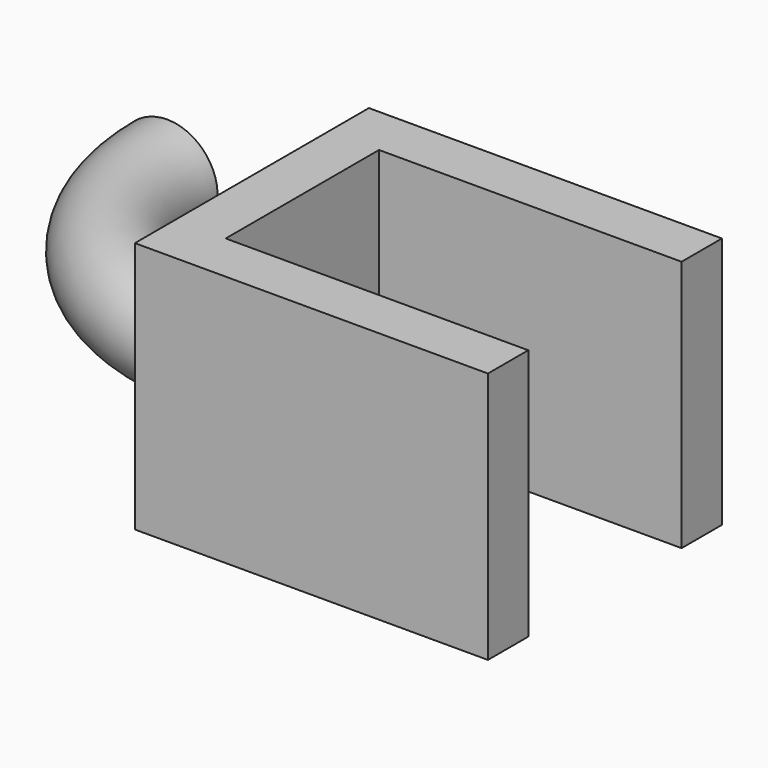
from build123d import *

# Parameters (mm, degrees)
F1_DEPTH = 25
F2_R     = 5
F3_ANGLE = -90


with BuildPart() as f1:
    # F0 (on Top) → F1 (new body)
    with BuildSketch(Plane.XY):
        Polygon((16.670214, 11.251115), (-18.329786, 11.251115), (-18.329786, -17.748885), (16.670214, -17.748885), (16.670214, -12.748885), (-13.329786, -12.748885), (-13.329786, 6.251115), (16.670214, 6.251115), align=None)
    extrude(amount=F1_DEPTH)

    # F2 (on face) → F3 (revolve)
    with BuildSketch(Plane(origin=(-18.329786, 0, 0), x_dir=(0, -1, 0), z_dir=(-1, 0, 0))):
        with Locations((8.748885, 12.5)):
            Circle(F2_R)
    revolve(axis=Axis((-18.329786, 11.251115, 13.872466), (0, 0, 1)), revolution_arc=F3_ANGLE)


solid = f1.part
